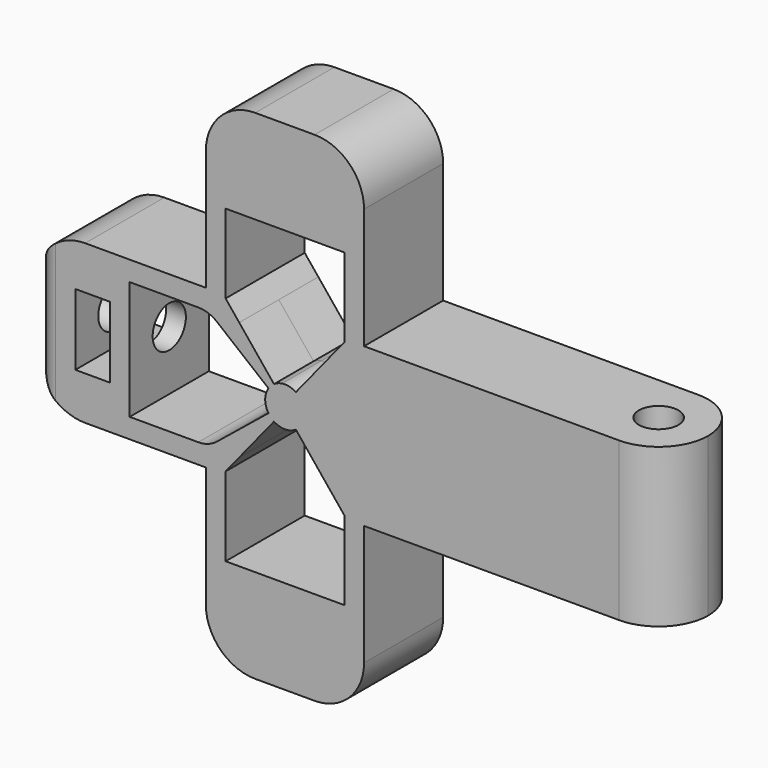
from build123d import *

# Parameters (mm, degrees)
F0_R      = 2
F1_DEPTH  = 16
F2_W      = 3.5
F2_H      = 7.2
F3_DEPTH  = 5
F4_DEPTH  = 5
F6_R      = 2.1
F7_DEPTH  = 10
F8_R      = 3
F9_DEPTH  = 5
F10_DEPTH = 5
F11_DEPTH = 5
F12_DEPTH = 5
F13_R     = 5


with BuildPart() as f1:
    # F0 (on Top) → F1 (new body)
    with BuildSketch(Plane.XY):
        with BuildLine():
            ThreePointArc((32, 0), (30.5355339059, 3.5355339059), (27, 5))
            Line((27, 5), (18, 5))
            Line((18, 5), (8, 5))
            Line((8, 5), (-32, 5))
            Line((-32, 5), (-32, -3))
            Line((-32, -3), (-30, -3))
            Line((-30, -3), (-30, -5))
            Line((-30, -5), (27, -5))
            ThreePointArc((27, -5), (30.5355339059, -3.5355339059), (32, 0))
        make_face()
        with Locations((27, 0)):
            Circle(F0_R, mode=Mode.SUBTRACT)
        with BuildLine():
            ThreePointArc((-32, -3), (-31.4142135624, -4.4142135624), (-30, -5))
            Line((-30, -5), (-30, -3))
            Line((-30, -3), (-32, -3))
        make_face()
    extrude(amount=F1_DEPTH)

    # F2 (on Front) → F3 (cut)
    with BuildSketch(Plane.XZ):
        with BuildLine():
            Line((-32, 16), (-32, 11))
            ThreePointArc((-32, 11), (-30.5355339059, 14.5355339059), (-27, 16))
            Line((-27, 16), (-32, 16))
        make_face()
        with BuildLine():
            Line((-32, 0), (-27, 0))
            ThreePointArc((-27, 0), (-30.5355339059, 1.4644660941), (-32, 5))
            Line((-32, 5), (-32, 0))
        make_face()
        with Locations((-26.25, 8)):
            Rectangle(F2_W, F2_H)
        with BuildLine():
            Line((-22.5, 2), (-14.5, 2))
            Line((-14.5, 2), (-12.8, 3.3783783784))
            Line((-12.8, 3.3783783784), (-8.4655588505, 6.8927901212))
            ThreePointArc((-8.4655588505, 6.8927901212), (-8.8, 8), (-8.4655588505, 9.1072098788))
            Line((-8.4655588505, 9.1072098788), (-12.8, 12.6216216216))
            Line((-12.8, 12.6216216216), (-14.5, 14))
            Line((-14.5, 14), (-22.5, 14))
            Line((-22.5, 14), (-22.5, 2))
        make_face()
    extrude(amount=-F3_DEPTH, mode=Mode.SUBTRACT)

    # F2 (on Front) → F4 (cut)
    with BuildSketch(Plane.XZ):
        with Locations((-26.25, 8)):
            Rectangle(F2_W, F2_H)
        with BuildLine():
            Line((-22.5, 2), (-14.5, 2))
            Line((-14.5, 2), (-12.8, 3.3783783784))
            Line((-12.8, 3.3783783784), (-8.4655588505, 6.8927901212))
            ThreePointArc((-8.4655588505, 6.8927901212), (-8.8, 8), (-8.4655588505, 9.1072098788))
            Line((-8.4655588505, 9.1072098788), (-12.8, 12.6216216216))
            Line((-12.8, 12.6216216216), (-14.5, 14))
            Line((-14.5, 14), (-22.5, 14))
            Line((-22.5, 14), (-22.5, 2))
        make_face()
        with BuildLine():
            Line((-32, 16), (-32, 11))
            ThreePointArc((-32, 11), (-30.5355339059, 14.5355339059), (-27, 16))
            Line((-27, 16), (-32, 16))
        make_face()
        with BuildLine():
            Line((-32, 0), (-27, 0))
            ThreePointArc((-27, 0), (-30.5355339059, 1.4644660941), (-32, 5))
            Line((-32, 5), (-32, 0))
        make_face()
    extrude(amount=F4_DEPTH, mode=Mode.SUBTRACT)

    # F6 (on offset) → F7 (cut)
    with BuildSketch(Plane.YZ.offset(-32)):
        with Locations((0, 8)):
            Circle(F6_R)
    extrude(amount=F7_DEPTH, mode=Mode.SUBTRACT)

    # F8
    f8_edges = [f1.edges().sort_by_distance(p)[0] for p in [
        (-14.5, 0, 2),
        (-14.5, 0, 14),
    ]]
    fillet(f8_edges, radius=F8_R)

    # F2 (on Front) → F9 (join)
    with BuildSketch(Plane.XZ):
        Polygon((-14.8, 33.2), (-14.8, 16), (-12.8, 16), (-12.8, 23.7), (-0.8, 23.7), (-0.8, 16), (1.2, 16), (1.2, 33.2), align=None)
        Polygon((-12.8, 0), (-14.8, 0), (-14.8, -17.2), (1.2, -17.2), (1.2, 0), (-0.8, 0), (-0.8, -7.7), (-12.8, -7.7), align=None)
    extrude(amount=F9_DEPTH)

    # F2 (on Front) → F10 (join)
    with BuildSketch(Plane.XZ):
        Polygon((-14.8, 33.2), (-14.8, 16), (-12.8, 16), (-12.8, 23.7), (-0.8, 23.7), (-0.8, 16), (1.2, 16), (1.2, 33.2), align=None)
        Polygon((-12.8, 0), (-14.8, 0), (-14.8, -17.2), (1.2, -17.2), (1.2, 0), (-0.8, 0), (-0.8, -7.7), (-12.8, -7.7), align=None)
    extrude(amount=-F10_DEPTH)

    # F2 (on Front) → F11 (cut)
    with BuildSketch(Plane.XZ):
        with BuildLine():
            Line((-12.8, 0.3), (-12.8, 0))
            Line((-12.8, 0), (-0.8, 0))
            Line((-0.8, 0), (-0.8, 0.3))
            Line((-0.8, 0.3), (-5.6927901212, 6.3344411495))
            ThreePointArc((-5.6927901212, 6.3344411495), (-6.3673294485, 6.047361735), (-7.1, 6.0226280067))
            Line((-7.1, 6.0226280067), (-7.1, 2))
            Line((-7.1, 2), (-11.4216216216, 2))
            Line((-11.4216216216, 2), (-12.8, 0.3))
        make_face()
        with BuildLine():
            Line((-7.9072098788, 6.3344411495), (-11.4216216216, 2))
            Line((-11.4216216216, 2), (-7.1, 2))
            Line((-7.1, 2), (-7.1, 6.0226280067))
            ThreePointArc((-7.1, 6.0226280067), (-7.5206710552, 6.1343544736), (-7.9072098788, 6.3344411495))
        make_face()
        with BuildLine():
            Line((-0.8, 16), (-12.8, 16))
            Line((-12.8, 16), (-12.8, 15.7))
            Line((-12.8, 15.7), (-11.4216216216, 14))
            Line((-11.4216216216, 14), (-7.1, 14))
            Line((-7.1, 14), (-7.1, 9.9773719933))
            ThreePointArc((-7.1, 9.9773719933), (-6.3673294485, 9.952638265), (-5.6927901212, 9.6655588505))
            Line((-5.6927901212, 9.6655588505), (-0.8, 15.7))
            Line((-0.8, 15.7), (-0.8, 16))
        make_face()
        with BuildLine():
            Line((-7.1, 14), (-11.4216216216, 14))
            Line((-11.4216216216, 14), (-7.9072098788, 9.6655588505))
            ThreePointArc((-7.9072098788, 9.6655588505), (-7.5206710552, 9.8656455264), (-7.1, 9.9773719933))
            Line((-7.1, 9.9773719933), (-7.1, 14))
        make_face()
    extrude(amount=-F11_DEPTH, mode=Mode.SUBTRACT)

    # F2 (on Front) → F12 (cut)
    with BuildSketch(Plane.XZ):
        with BuildLine():
            Line((-12.8, 0.3), (-12.8, 0))
            Line((-12.8, 0), (-0.8, 0))
            Line((-0.8, 0), (-0.8, 0.3))
            Line((-0.8, 0.3), (-5.6927901212, 6.3344411495))
            ThreePointArc((-5.6927901212, 6.3344411495), (-6.3673294485, 6.047361735), (-7.1, 6.0226280067))
            Line((-7.1, 6.0226280067), (-7.1, 2))
            Line((-7.1, 2), (-11.4216216216, 2))
            Line((-11.4216216216, 2), (-12.8, 0.3))
        make_face()
        with BuildLine():
            Line((-7.9072098788, 6.3344411495), (-11.4216216216, 2))
            Line((-11.4216216216, 2), (-7.1, 2))
            Line((-7.1, 2), (-7.1, 6.0226280067))
            ThreePointArc((-7.1, 6.0226280067), (-7.5206710552, 6.1343544736), (-7.9072098788, 6.3344411495))
        make_face()
        with BuildLine():
            Line((-0.8, 16), (-12.8, 16))
            Line((-12.8, 16), (-12.8, 15.7))
            Line((-12.8, 15.7), (-11.4216216216, 14))
            Line((-11.4216216216, 14), (-7.1, 14))
            Line((-7.1, 14), (-7.1, 9.9773719933))
            ThreePointArc((-7.1, 9.9773719933), (-6.3673294485, 9.952638265), (-5.6927901212, 9.6655588505))
            Line((-5.6927901212, 9.6655588505), (-0.8, 15.7))
            Line((-0.8, 15.7), (-0.8, 16))
        make_face()
        with BuildLine():
            Line((-7.1, 14), (-11.4216216216, 14))
            Line((-11.4216216216, 14), (-7.9072098788, 9.6655588505))
            ThreePointArc((-7.9072098788, 9.6655588505), (-7.5206710552, 9.8656455264), (-7.1, 9.9773719933))
            Line((-7.1, 9.9773719933), (-7.1, 14))
        make_face()
    extrude(amount=F12_DEPTH, mode=Mode.SUBTRACT)

    # F13
    f13_edges = [f1.edges().sort_by_distance(p)[0] for p in [
        (-14.8, 0, 33.2),
        (1.2, 0, 33.2),
        (-14.8, 0, -17.2),
        (1.2, 0, -17.2),
    ]]
    fillet(f13_edges, radius=F13_R)


solid = f1.part
